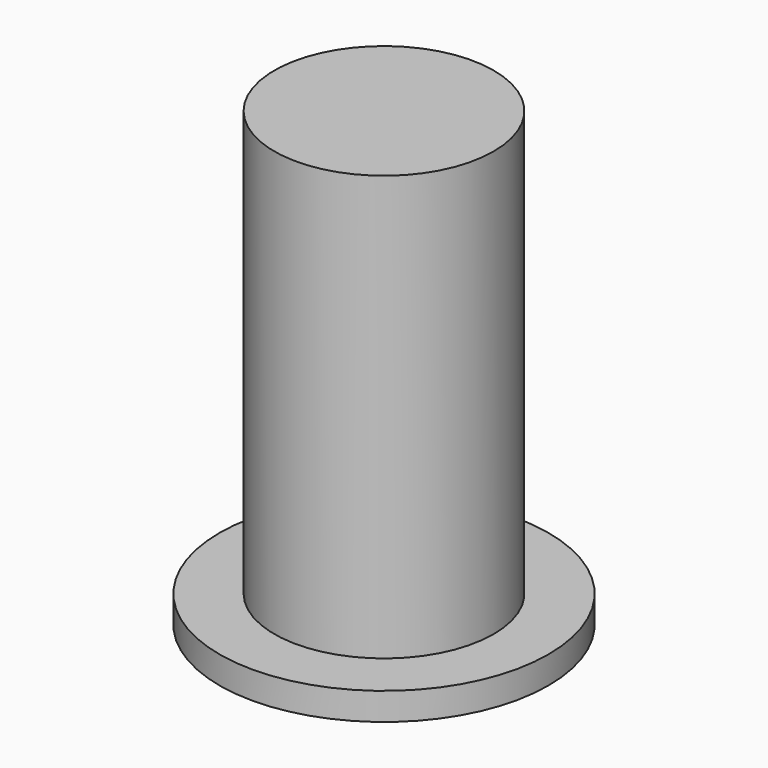
from build123d import *

# Parameters (mm, degrees)
F0_R     = 12.7
F1_DEPTH = 50.8
F0_R_2   = 19.05
F2_DEPTH = 1.5875


with BuildPart() as f1:
    # F0 (on Top) → F1 (new body)
    with BuildSketch(Plane.XY):
        Circle(F0_R)
    extrude(amount=F1_DEPTH)

    # F0 (on Top) → F2 (join, symmetric)
    with BuildSketch(Plane.XY):
        Circle(F0_R_2)
        Circle(F0_R, mode=Mode.SUBTRACT)
    extrude(amount=F2_DEPTH, both=True)


solid = f1.part
